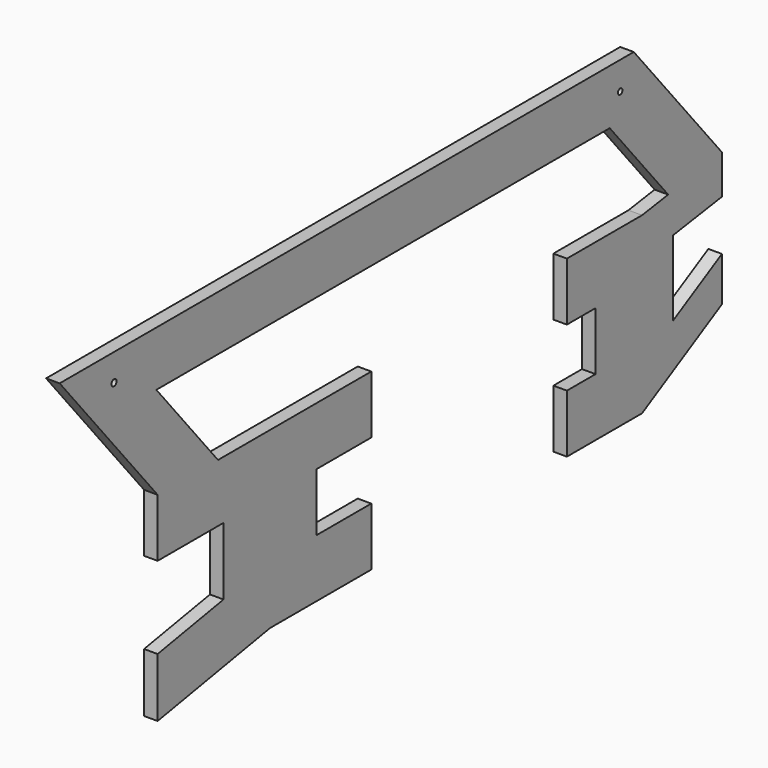
from build123d import *

# Parameters (mm, degrees)
F0_R     = 1.651645
F0_R_2   = 1.445724
F1_DEPTH = 7


with BuildPart() as f1:
    # F0 (on Right) → F1 (new body)
    with BuildSketch(Plane.YZ):
        Polygon((-356.900788, 6.133944), (-356.900788, -24.328854), (-284.401963, -11.545355), (-284.401963, 78.454645), (-317.951839, 78.454645), (-357.733169, 126.499922), (-123.132242, 126.499922), (-65.252276, 126.499922), (-27.548198, 80.963414), (7.126982, 86.124992), (-49.73514, 154.799327), (-420.113932, 154.799327), (-356.900788, 78.454645), (-356.900788, 48.454645), (-314.401963, 48.454645), (-314.401963, 13.627634), align=None)
        with Locations((-385.02878, 140.829772)):
            Circle(F0_R, mode=Mode.SUBTRACT)
        with Locations((-58.474749, 140.364423)):
            Circle(F0_R_2, mode=Mode.SUBTRACT)
        Polygon((-284.401963, 78.454645), (-284.401963, -11.545355), (-219.066984, -11.545355), (-219.066984, 18.454645), (-254.401963, 18.454645), (-254.401963, 48.454645), (-219.066984, 48.454645), (-219.066984, 78.454645), align=None)
        Polygon((-44.401963, -11.545355), (-44.401963, 78.454645), (-92.873018, 78.454645), (-92.873018, 48.454645), (-74.401963, 48.454645), (-74.401963, 18.454645), (-92.873018, 18.454645), (-92.873018, -11.545355), align=None)
        Polygon((7.126982, 86.124992), (-27.548198, 80.963414), (-44.401963, 78.454645), (-44.401963, -11.545355), (7.126982, 17.058674), (7.126982, 39.933487), (-24.401963, 22.431579), (-24.401963, 61.211383), (6.694329, 65.840225), (7.126982, 65.904627), align=None)
    extrude(amount=F1_DEPTH)


solid = f1.part
